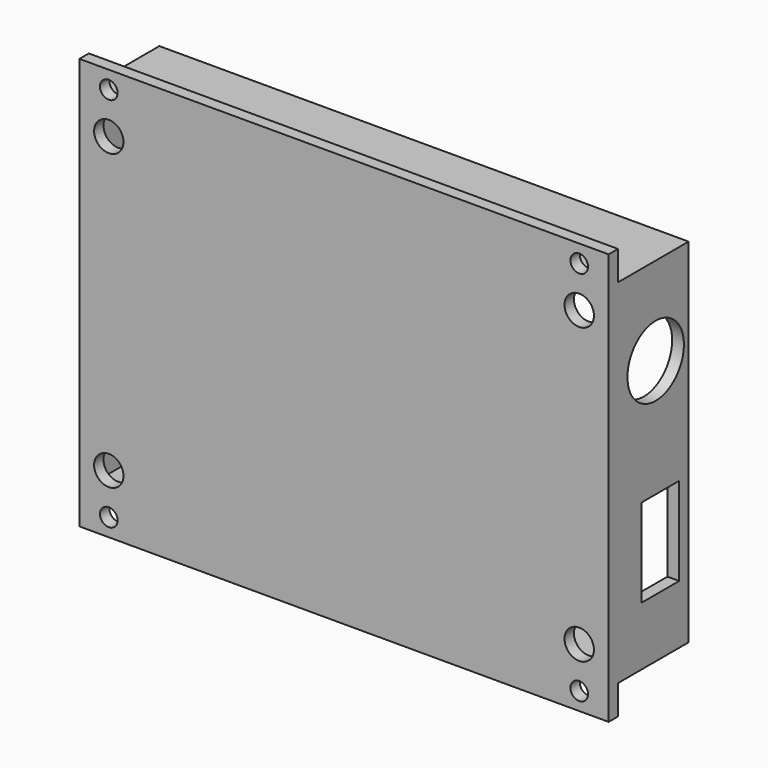
from build123d import *

# Parameters (mm, degrees)
SKETCH004_W   = 15
SKETCH004_H   = 60
SKETCH004_R   = 6
SKETCH004_W_2 = 8
SKETCH004_H_2 = 15
PAD004_DEPTH  = 2
SKETCH003_W   = 15
SKETCH003_H   = 60
PAD003_DEPTH  = 2
SKETCH002_W   = 90
SKETCH002_H   = 15
PAD002_DEPTH  = 2
SKETCH001_W   = 90
SKETCH001_H   = 15
PAD001_DEPTH  = 2
SKETCH_W      = 90
SKETCH_H      = 70
SKETCH_R      = 2.5
SKETCH_R_2    = 1.5
PAD_DEPTH     = 2


with BuildPart() as body004:
    # Sketch004 → Pad004 (new body)
    with BuildSketch(Plane.YZ):
        with Locations((7.5, 0)):
            Rectangle(SKETCH004_W, SKETCH004_H)
        with Locations((8, 15)):
            Circle(SKETCH004_R, mode=Mode.SUBTRACT)
        with Locations((9, -12.5)):
            Rectangle(SKETCH004_W_2, SKETCH004_H_2, mode=Mode.SUBTRACT)
    extrude(amount=PAD004_DEPTH)


with BuildPart() as body004_1:
    # Body004 placement: moved
    add(body004.part.moved(Location((43, 0, 0))))


with BuildPart() as body003:
    # Sketch003 → Pad003 (new body)
    with BuildSketch(Plane.YZ):
        with Locations((7.5, 0)):
            Rectangle(SKETCH003_W, SKETCH003_H)
    extrude(amount=PAD003_DEPTH)


with BuildPart() as body003_1:
    # Body003 placement: moved
    add(body003.part.moved(Location((-45, 0, 0))))


with BuildPart() as body002:
    # Sketch002 → Pad002 (new body)
    with BuildSketch(Plane.XY):
        with Locations((0, 7.5)):
            Rectangle(SKETCH002_W, SKETCH002_H)
    extrude(amount=PAD002_DEPTH)


with BuildPart() as body002_1:
    # Body002 placement: moved
    add(body002.part.moved(Location((0, 0, -30))))


with BuildPart() as body001:
    # Sketch001 → Pad001 (new body)
    with BuildSketch(Plane.XY):
        with Locations((0, 7.5)):
            Rectangle(SKETCH001_W, SKETCH001_H)
    extrude(amount=PAD001_DEPTH)


with BuildPart() as body001_1:
    # Body001 placement: moved
    add(body001.part.moved(Location((0, 0, 28))))


with BuildPart() as fusion003:
    # Sketch → Pad (new body)
    with BuildSketch(Plane.XZ):
        Rectangle(SKETCH_W, SKETCH_H)
        with Locations((-40, 25)):
            Circle(SKETCH_R, mode=Mode.SUBTRACT)
        with Locations((-40, -25)):
            Circle(SKETCH_R, mode=Mode.SUBTRACT)
        with Locations((40, -25)):
            Circle(SKETCH_R, mode=Mode.SUBTRACT)
        with Locations((40, 25)):
            Circle(SKETCH_R, mode=Mode.SUBTRACT)
        with Locations((-40, 32)):
            Circle(SKETCH_R_2, mode=Mode.SUBTRACT)
        with Locations((40, 32)):
            Circle(SKETCH_R_2, mode=Mode.SUBTRACT)
        with Locations((40, -32)):
            Circle(SKETCH_R_2, mode=Mode.SUBTRACT)
        with Locations((-40, -32)):
            Circle(SKETCH_R_2, mode=Mode.SUBTRACT)
    extrude(amount=PAD_DEPTH)

    # Fusion: union Body001
    add(body001_1.part)

    # Fusion001: union Body002
    add(body002_1.part)

    # Fusion002: union Body003
    add(body003_1.part)

    # Fusion003: union Body004
    add(body004_1.part)


solid = fusion003.part
